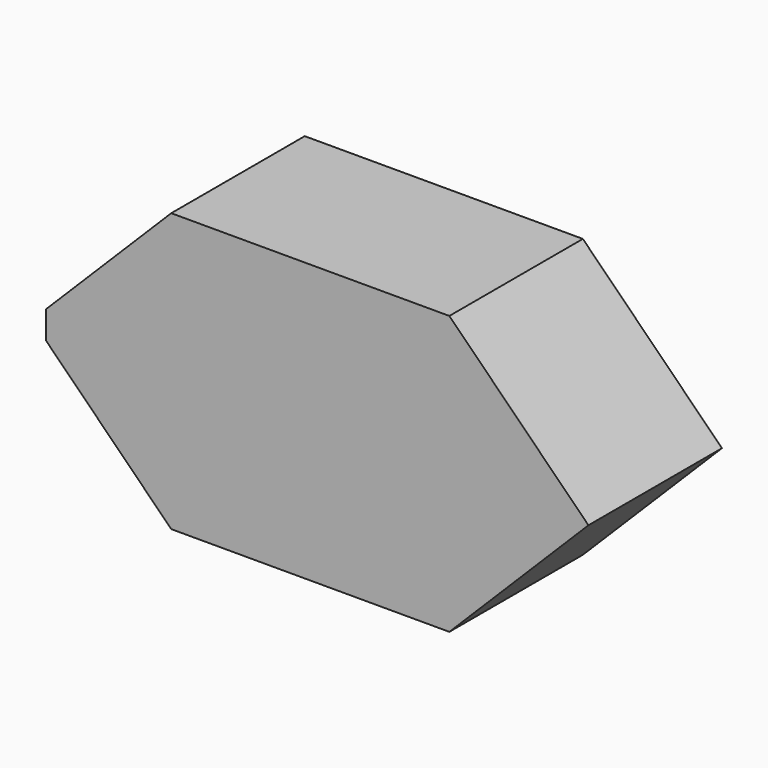
from build123d import *

# Parameters (mm, degrees)
F2_DEPTH      = 6
F2_DEPTH_BACK = 6
F1_W          = 2
F1_H          = 2
F3_DEPTH      = 10


with BuildPart() as f2:
    # F0 (on Front) → F2 (new body, two sides)
    with BuildSketch(Plane.XZ) as f2_sk:
        Polygon((0, 10), (-9, 1), (-9, -1), (0, -10), (20, -10), (30, 0), (20, 10), align=None)
    extrude(amount=F2_DEPTH)
    extrude(f2_sk.sketch, amount=-F2_DEPTH_BACK)

    # F1 (on face) → F3 (cut)
    with BuildSketch(Plane(origin=(-9, 0, 0), x_dir=(0, -1, 0), z_dir=(-1, 0, 0))):
        Rectangle(F1_W, F1_H)
    extrude(amount=-F3_DEPTH, mode=Mode.SUBTRACT)


solid = f2.part
